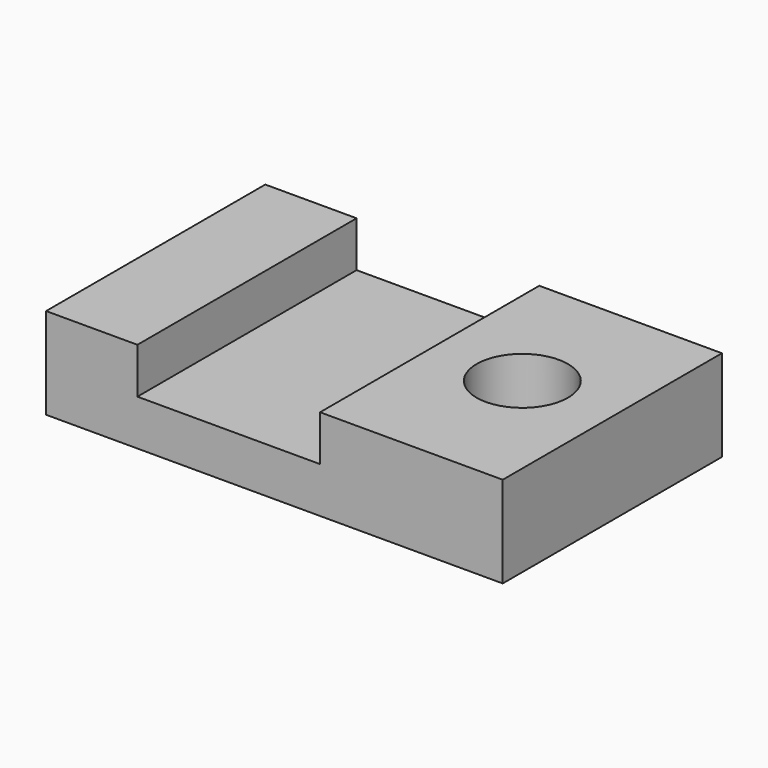
from build123d import *

# Parameters (mm, degrees)
F0_W     = 25.4
F0_H     = 76.2
F1_DEPTH = 25.4
F0_W_2   = 50.8
F2_DEPTH = 12.7
F3_DEPTH = 25.4
F5_D     = 25.4


with BuildPart() as f1:
    # F0 (on Top) → F1 (new body)
    with BuildSketch(Plane.XY):
        with Locations((12.7, 38.1)):
            Rectangle(F0_W, F0_H)
    extrude(amount=F1_DEPTH)

    # F0 (on Top) → F2 (join)
    with BuildSketch(Plane.XY):
        with Locations((50.8, 38.1)):
            Rectangle(F0_W_2, F0_H)
    extrude(amount=F2_DEPTH)

    # F0 (on Top) → F3 (join)
    with BuildSketch(Plane.XY):
        with Locations((101.6, 38.1)):
            Rectangle(F0_W_2, F0_H)
    extrude(amount=F3_DEPTH)

    # F5 (through all)
    with Locations(Plane.XY.offset(25.4)):
        with Locations((101.272404, 38.972251)):
            Hole(F5_D / 2)


solid = f1.part
